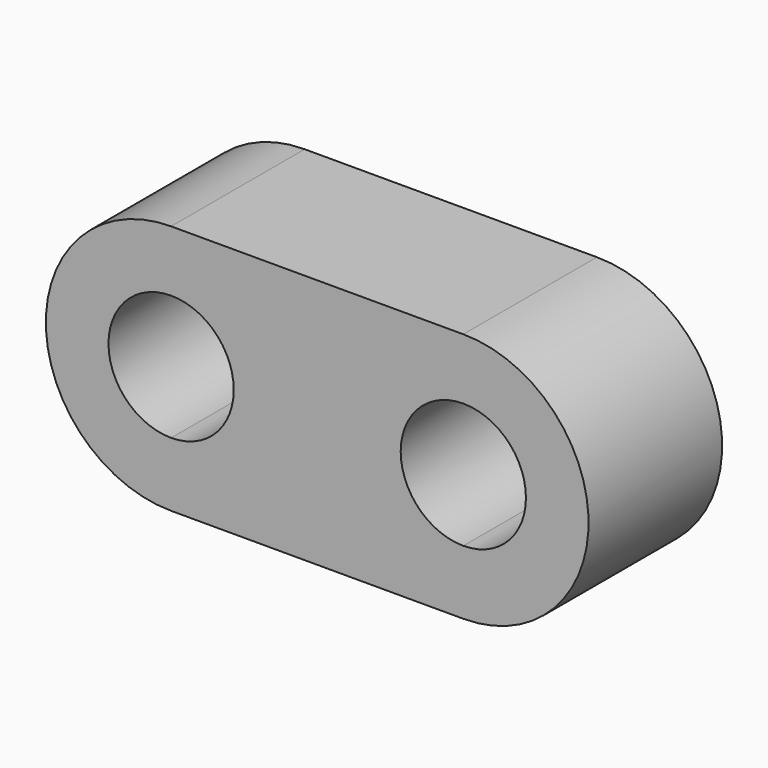
from build123d import *

# Parameters (mm, degrees)
F0_W     = 44.45
F0_H     = 9.278706
F0_H_2   = 9.771294
F1_DEPTH = 25.4


with BuildPart() as f1:
    # F0 (on Front) → F1 (new body)
    with BuildSketch(Plane.XZ):
        with BuildLine():
            ThreePointArc((22.225, -19.173147), (41.275, -0.123147), (22.225, 18.926853))
            Line((22.225, 18.926853), (22.225, 9.648147))
            ThreePointArc((22.225, 9.648147), (28.960192, 6.858339), (31.75, 0.123147))
            ThreePointArc((31.75, 0.123147), (28.960192, -6.612045), (22.225, -9.401853))
            Line((22.225, -9.401853), (22.225, -19.173147))
        make_face()
        with Locations((0, 14.2875)):
            Rectangle(F0_W, F0_H)
        with Locations((0, -14.2875)):
            Rectangle(F0_W, F0_H_2)
        with BuildLine():
            Line((-22.225, 9.648147), (-22.225, 18.926853))
            ThreePointArc((-22.225, 18.926853), (-41.275, -0.123147), (-22.225, -19.173147))
            Line((-22.225, -19.173147), (-22.225, -9.401853))
            ThreePointArc((-22.225, -9.401853), (-31.75, 0.123147), (-22.225, 9.648147))
        make_face()
        with BuildLine():
            Line((22.225, 9.648147), (-22.225, 9.648147))
            ThreePointArc((-22.225, 9.648147), (-15.489808, 6.858339), (-12.7, 0.123147))
            ThreePointArc((-12.7, 0.123147), (-15.489808, -6.612045), (-22.225, -9.401853))
            Line((-22.225, -9.401853), (22.225, -9.401853))
            ThreePointArc((22.225, -9.401853), (12.7, 0.123147), (22.225, 9.648147))
        make_face()
    extrude(amount=F1_DEPTH)


solid = f1.part
